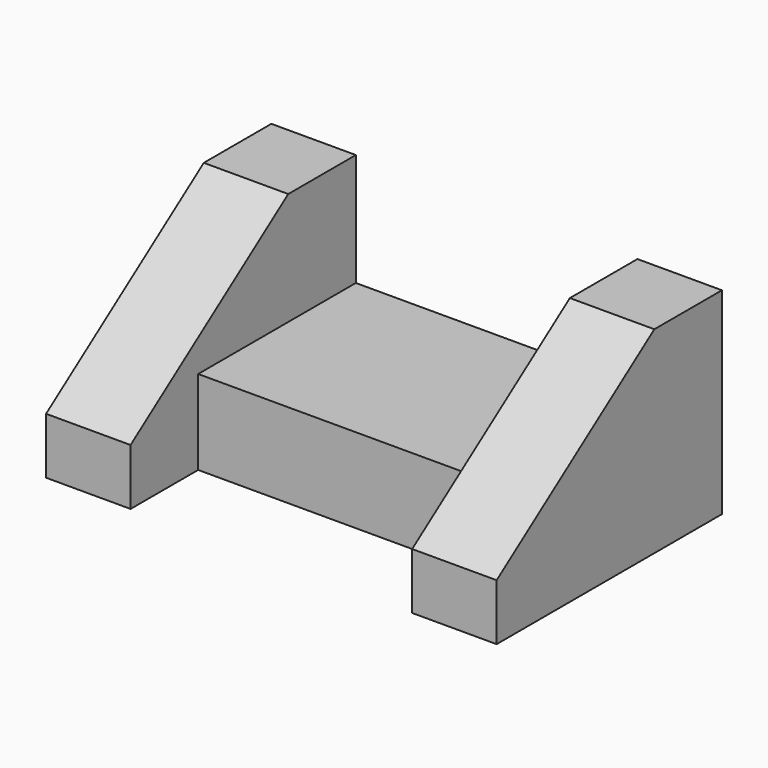
from build123d import *

# Parameters (mm, degrees)
F0_W     = 31.75
F0_H     = 44.45
F1_DEPTH = 19.05
F3_DEPTH = 19.05


with BuildPart() as f1:
    # F0 (on Top) → F1 (new body)
    with BuildSketch(Plane.XY):
        with Locations((-16.600921, -22.225)):
            Rectangle(F0_W, F0_H)
    extrude(amount=F1_DEPTH)

    # F2 (on face) → F3 (join)
    with BuildSketch(Plane.YZ.offset(-0.725921)):
        Polygon((-63.5, 12.7), (-63.5, 0), (0, 0), (0, 44.45), (-19.05, 44.45), align=None)
    extrude(amount=F3_DEPTH)

    # F4: F1 across face


with BuildPart() as f1_1:
    add(f1.part)
    add(f1.part.mirror(Plane(origin=(-32.475921, -22.225, 9.525), x_dir=(0, -1, 0), z_dir=(-1, 0, 0))))


solid = f1_1.part
